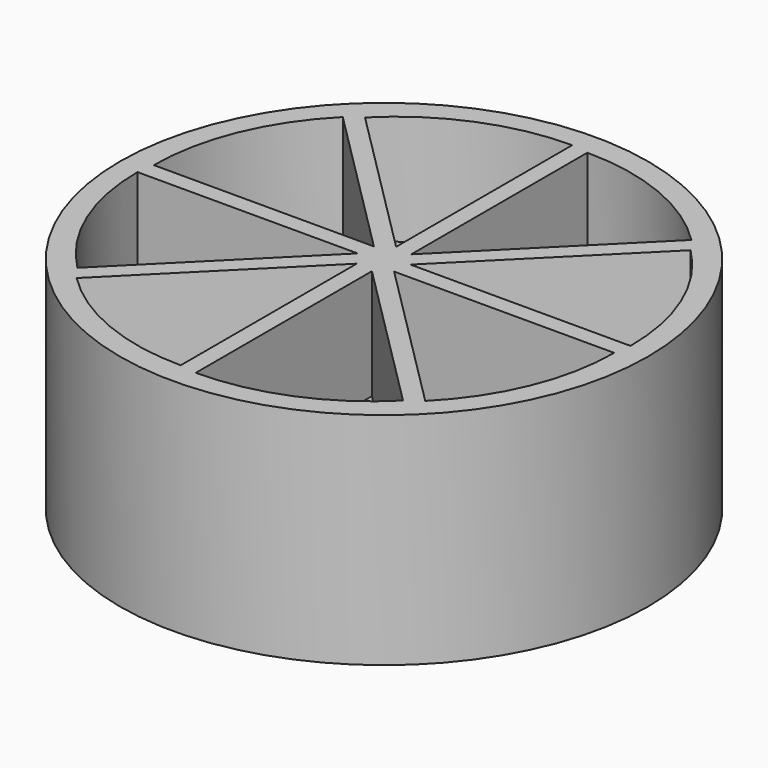
from build123d import *

# Parameters (mm, degrees)
CYLINDER001_W     = 10
CYLINDER001_H     = 10
CYLINDER001_ANGLE = 45
ARRAY_COUNT       = 8
CYLINDER_R        = 12
CYLINDER_DEPTH    = 10


with BuildPart() as array:
    # Cylinder001 → Cylinder001 (revolve)
    with BuildSketch(Plane(origin=(1, 0.25, 0), x_dir=(1, 0, 0), z_dir=(0, -1, 0))):
        with Locations((5, 5)):
            Rectangle(CYLINDER001_W, CYLINDER001_H)
    revolve(axis=Axis((1, 0.25, 0), (0, 0, 1)), revolution_arc=CYLINDER001_ANGLE)

    # Array: Array ×8 about axis
    array_axis = Axis((0, 0, 0), (0, 0, 1))


with BuildPart() as array_1:
    add(array.part)
    for i in range(1, ARRAY_COUNT):
        add(array.part.rotate(array_axis, i * 360 / ARRAY_COUNT))


with BuildPart() as array_2:
    # Array placement: moved
    add(array_1.part.moved(Location((0, 0, 5))))


with BuildPart() as cut:
    # Cylinder → Cylinder (new body)
    with BuildSketch(Plane.XY):
        Circle(CYLINDER_R)
    extrude(amount=CYLINDER_DEPTH)

    # Cut: cut Array
    add(array_2.part, mode=Mode.SUBTRACT)


solid = cut.part
